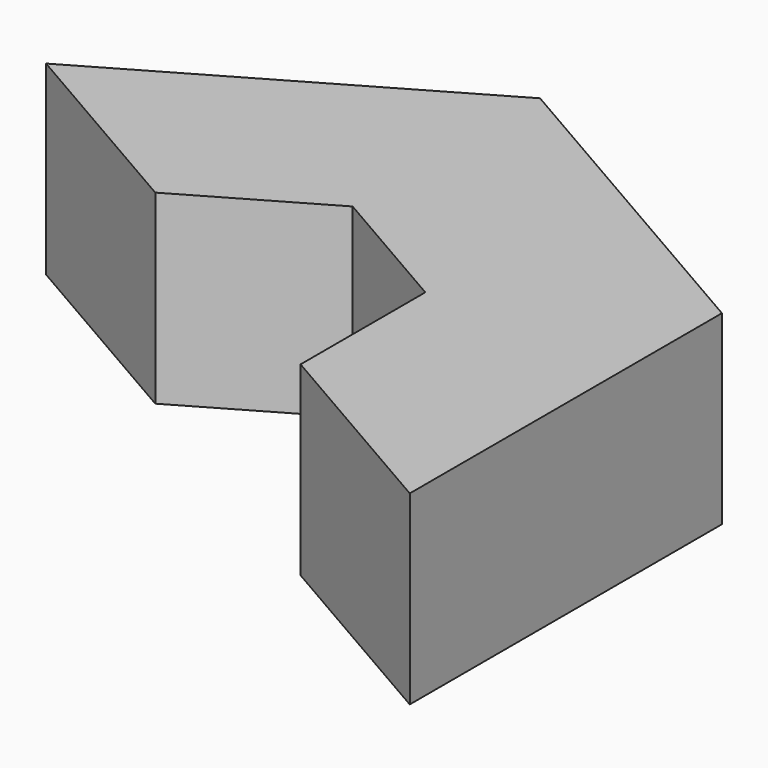
from build123d import *

# Parameters (mm, degrees)
PAD_DEPTH = 46.3


with BuildPart() as part:
    # Sketch → Pad (new body)
    with BuildSketch(Plane.XY):
        Polygon((84.200158, -48.612984), (84.200158, 48.612984), (0, 97.225967), (-84.200158, 48.612984), (-33.643373, 19.42401), (0, 38.848021), (33.643373, 19.42401), (33.643373, -19.42401), align=None)
    extrude(amount=PAD_DEPTH)


solid = part.part
